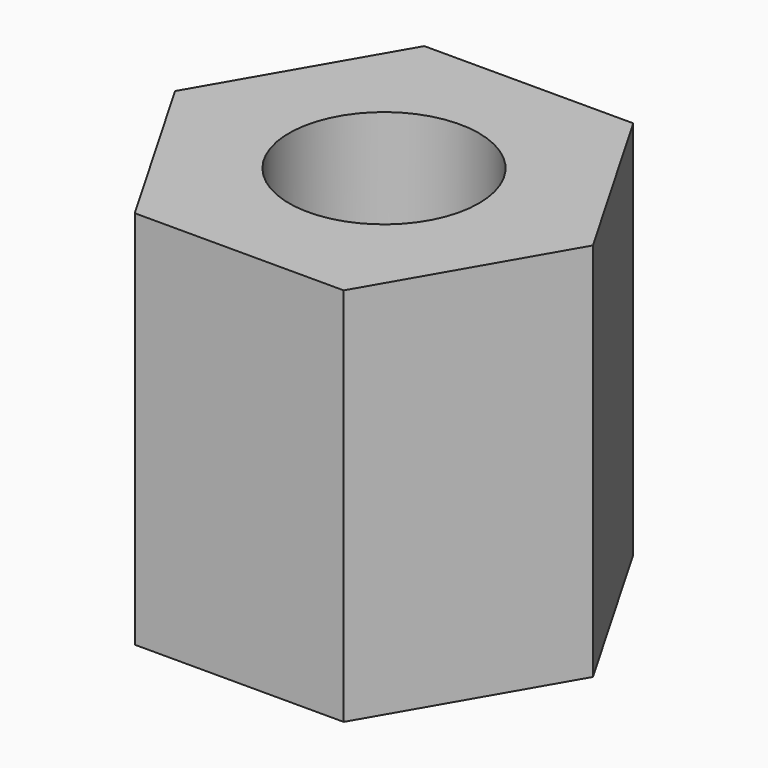
from build123d import *

# Parameters (mm, degrees)
F0_R     = 6.35
F1_DEPTH = 25.4


with BuildPart() as f1:
    # F0 (on Top) → F1 (new body)
    with BuildSketch(Plane.XY):
        Polygon((6.985, 12.098375), (-6.985, 12.098375), (-13.97, 0), (-6.985, -12.098375), (6.985, -12.098375), (13.97, 0), align=None)
        Circle(F0_R, mode=Mode.SUBTRACT)
        Polygon((6.985, 12.098375), (-6.985, 12.098375), (-13.97, 0), (-6.985, -12.098375), (6.985, -12.098375), (13.97, 0), align=None)
        Circle(F0_R, mode=Mode.SUBTRACT)
    extrude(amount=F1_DEPTH)


solid = f1.part
